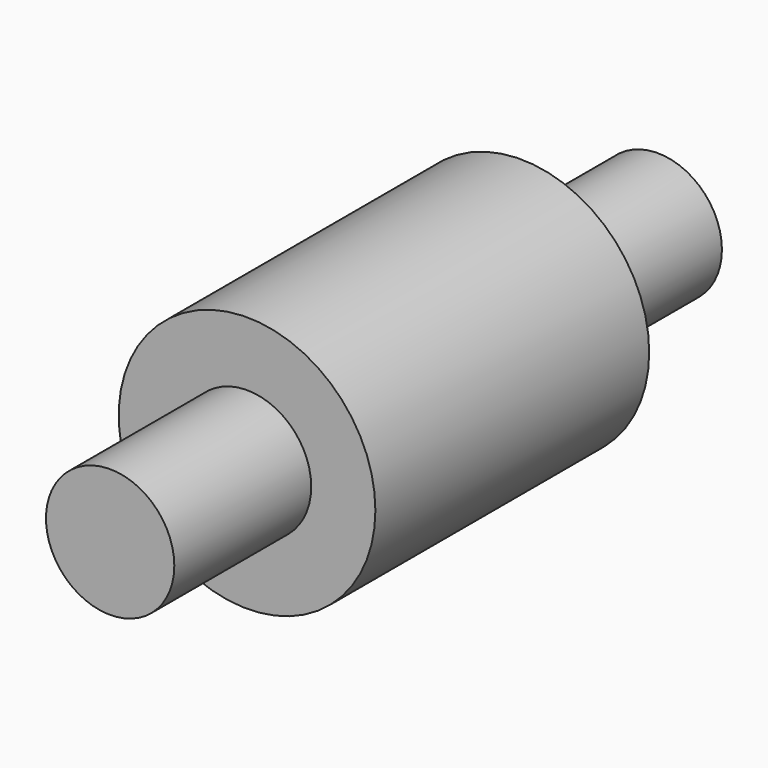
from build123d import *

# Parameters (mm, degrees)
F1_R     = 19.05
F2_DEPTH = 101.6
F0_R     = 38.1
F3_DEPTH = 50.8


with BuildPart() as f2:
    # F1 (on Front) → F2 (new body, symmetric)
    with BuildSketch(Plane.XZ):
        Circle(F1_R)
    extrude(amount=F2_DEPTH, both=True)

    # F0 (on Front) → F3 (join, symmetric)
    with BuildSketch(Plane.XZ):
        Circle(F0_R)
    extrude(amount=F3_DEPTH, both=True)


solid = f2.part
